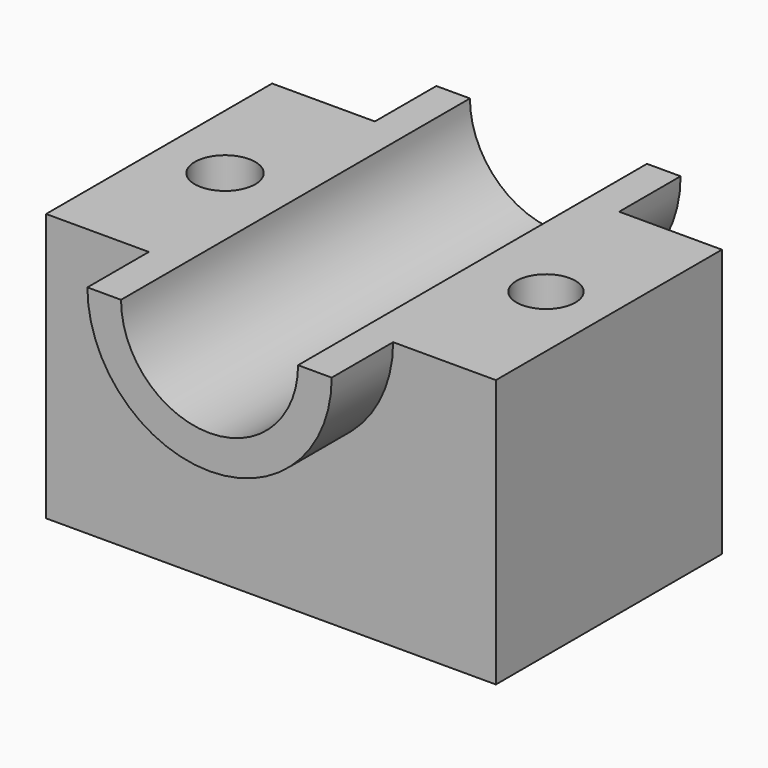
from build123d import *

# Parameters (mm, degrees)
F1_DEPTH = 23.368
F2_DEPTH = 36.068
F3_R     = 5.00372
F3_R_2   = 4.870923
F4_DEPTH = 64.008


with BuildPart() as f1:
    # F0 (on Front) → F1 (new body, symmetric)
    with BuildSketch(Plane.XZ):
        with BuildLine():
            Line((-37.199613, -22.161454), (37.199613, -22.161454))
            Line((37.199613, -22.161454), (37.199613, 22.161454))
            Line((37.199613, 22.161454), (20.20446, 22.161454))
            ThreePointArc((20.20446, 22.161454), (0, 1.956994), (-20.20446, 22.161454))
            Line((-20.20446, 22.161454), (-37.199613, 22.161454))
            Line((-37.199613, 22.161454), (-37.199613, -22.161454))
        make_face()
    extrude(amount=F1_DEPTH, both=True)

    # F0 (on Front) → F2 (join, symmetric)
    with BuildSketch(Plane.XZ):
        with BuildLine():
            ThreePointArc((-20.20446, 22.161454), (0, 1.956994), (20.20446, 22.161454))
            Line((20.20446, 22.161454), (14.641577, 22.161454))
            ThreePointArc((14.641577, 22.161454), (0, 7.519877), (-14.641577, 22.161454))
            Line((-14.641577, 22.161454), (-20.20446, 22.161454))
        make_face()
    extrude(amount=F2_DEPTH, both=True)

    # F3 (on face) → F4 (cut)
    with BuildSketch(Plane.XY.offset(22.161454)):
        with Locations((-26.294084, 0)):
            Circle(F3_R)
        with Locations((26.79375, 0)):
            Circle(F3_R_2)
    extrude(amount=-F4_DEPTH, mode=Mode.SUBTRACT)


solid = f1.part
